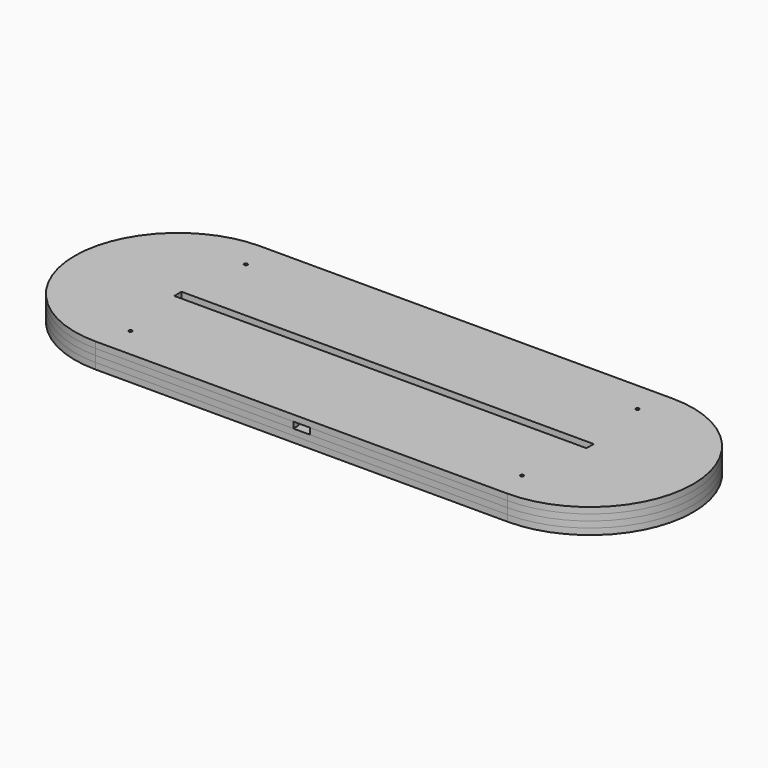
from build123d import *

# Parameters (mm, degrees)
BOX_BOTTOM_HALF_1_W     = 301.98633
BOX_BOTTOM_HALF_1_H     = 102
BOX_BOTTOM_HALF_1_DEPTH = 4
BOX_BOTTOM_HALF_0_W     = 301.98633
BOX_BOTTOM_HALF_0_H     = 102
BOX_BOTTOM_HALF_0_DEPTH = 7
PAD_DEPTH               = 3
PAD001_DEPTH            = 3
SKETCH002_W             = 209.08447
SKETCH002_H             = 4.18
PAD002_DEPTH            = 3
SKETCH003_W             = 26.3
SKETCH003_H             = 34.2
POCKET_DEPTH            = 3
SKETCH004_W             = 18
SKETCH004_H             = 25
POCKET001_DEPTH         = 3
SKETCH005_W             = 14
SKETCH005_H             = 5
POCKET002_DEPTH         = 6
SKETCH006_W             = 14
SKETCH006_H             = 3
POCKET003_DEPTH         = 3
SKETCH007_W             = 8
SKETCH007_H             = 3
POCKET004_DEPTH         = 3
SKETCH008_W             = 200
SKETCH008_H             = 4.4
PAD003_DEPTH            = 3
SKETCH009_R             = 0.82
POCKET005_DEPTH         = 644.911736
BOX_BOTTOM_HALF_2_W     = 301.98633
BOX_BOTTOM_HALF_2_H     = 102
BOX_BOTTOM_HALF_2_DEPTH = 4


with BuildPart() as box_bottom_half_1_body:
    # box_bottom_half_1 → box_bottom_half_1 (new body)
    with BuildSketch(Plane(origin=(-150.993165, -51, -1), x_dir=(1, 0, 0), z_dir=(0, 0, 1))):
        with Locations((150.993165, 51)):
            Rectangle(BOX_BOTTOM_HALF_1_W, BOX_BOTTOM_HALF_1_H)
    extrude(amount=BOX_BOTTOM_HALF_1_DEPTH)


with BuildPart() as box_bottom_half_0_body:
    # box_bottom_half_0 → box_bottom_half_0 (new body)
    with BuildSketch(Plane(origin=(-150.993165, -51, -1), x_dir=(1, 0, 0), z_dir=(0, 0, 1))):
        with Locations((150.993165, 51)):
            Rectangle(BOX_BOTTOM_HALF_0_W, BOX_BOTTOM_HALF_0_H)
    extrude(amount=BOX_BOTTOM_HALF_0_DEPTH)


with BuildPart() as body:
    # Sketch → Pad (new body)
    with BuildSketch(Plane.XY):
        with BuildLine():
            ThreePointArc((-100, 50), (-150, 0), (-100, -50))
            Line((-100, -50), (100, -50))
            ThreePointArc((100, -50), (150, 0), (100, 50))
            Line((-100, 50), (100, 50))
        make_face()
    extrude(amount=PAD_DEPTH)

    # Sketch001 (on Face6 of Pad) → Pad001 (join)
    with BuildSketch(Plane.XY.offset(3)):
        with BuildLine():
            ThreePointArc((-100, 50), (-150, 0), (-100, -50))
            Line((-100, -50), (100, -50))
            ThreePointArc((100, -50), (150, 0), (100, 50))
            Line((-100, 50), (100, 50))
        make_face()
        with BuildLine():
            ThreePointArc((-100, 5), (-105, 0), (-100, -5))
            Line((-100, -5), (100, -5))
            ThreePointArc((100, -5), (105, 0), (100, 5))
            Line((-100, 5), (100, 5))
        make_face(mode=Mode.SUBTRACT)
    extrude(amount=PAD001_DEPTH)

    # Sketch002 (on Face9 of Pad001) → Pad002 (join)
    with BuildSketch(Plane.XY.offset(6)):
        with BuildLine():
            ThreePointArc((-100, 50), (-150, 0), (-100, -50))
            Line((-100, -50), (100, -50))
            ThreePointArc((100, -50), (150, 0), (100, 50))
            Line((-100, 50), (100, 50))
        make_face()
        Rectangle(SKETCH002_W, SKETCH002_H, mode=Mode.SUBTRACT)
    extrude(amount=PAD002_DEPTH)

    # Sketch003 (on Face13 of Pad002) → Pocket (cut)
    with BuildSketch(Plane.XY.offset(9)):
        with Locations((0, -29.9)):
            Rectangle(SKETCH003_W, SKETCH003_H)
    extrude(amount=-POCKET_DEPTH, mode=Mode.SUBTRACT)

    # Sketch004 (on Face27 of Pocket) → Pocket001 (cut)
    with BuildSketch(Plane.XY.offset(6)):
        with Locations((0, -25.3)):
            Rectangle(SKETCH004_W, SKETCH004_H)
    extrude(amount=-POCKET001_DEPTH, mode=Mode.SUBTRACT)

    # Sketch005 (on Face13 of Pocket001) → Pocket002 (cut)
    with BuildSketch(Plane.XY.offset(9)):
        with Locations((0, -10.3)):
            Rectangle(SKETCH005_W, SKETCH005_H)
    extrude(amount=-POCKET002_DEPTH, mode=Mode.SUBTRACT)

    # Sketch006 (on Face23 of Pocket002) → Pocket003 (cut)
    with BuildSketch(Plane.XZ.offset(7.8)):
        with Locations((0, 4.5)):
            Rectangle(SKETCH006_W, SKETCH006_H)
    extrude(amount=-POCKET003_DEPTH, mode=Mode.SUBTRACT)

    # Sketch007 (on Face13 of Pocket003) → Pocket004 (cut)
    with BuildSketch(Plane.XY.offset(9)):
        with Locations((0, -48.5)):
            Rectangle(SKETCH007_W, SKETCH007_H)
    extrude(amount=-POCKET004_DEPTH, mode=Mode.SUBTRACT)

    # Sketch008 (on Face15 of Pocket004) → Pad003 (join)
    with BuildSketch(Plane.XY.offset(9)):
        with BuildLine():
            ThreePointArc((-100, 50), (-150, 0), (-100, -50))
            Line((-100, -50), (100, -50))
            ThreePointArc((100, -50), (150, 0), (100, 50))
            Line((-100, 50), (100, 50))
        make_face()
        Rectangle(SKETCH008_W, SKETCH008_H, mode=Mode.SUBTRACT)
    extrude(amount=PAD003_DEPTH)

    # Sketch009 (on Face4 of Pad003) → Pocket005 (cut, through all)
    with BuildSketch(Plane(origin=(0, 0, 0), x_dir=(1, 0, 0), z_dir=(0, 0, -1))):
        with Locations((-95, 35)):
            Circle(SKETCH009_R)
        with Locations((-95, -35)):
            Circle(SKETCH009_R)
    pocket005 = extrude(amount=-POCKET005_DEPTH, mode=Mode.SUBTRACT)

    # Mirrored: Pocket005 across Sketch009 V_Axis
    add(pocket005.mirror(Plane(origin=(0, 0, 0), x_dir=(0, 0, -1), z_dir=(1, 0, 0))), mode=Mode.SUBTRACT)


with BuildPart() as bottom_half_0_body:
    # bottom_half_0 base: copy of Body
    add(body.part)

    # bottom_half_0: intersect box_bottom_half_0 body
    add(box_bottom_half_0_body.part, mode=Mode.INTERSECT)


with BuildPart() as bottom_half_1_body:
    # bottom_half_1 base: copy of bottom_half_0 body
    add(bottom_half_0_body.part)

    # bottom_half_1: intersect box_bottom_half_1 body
    add(box_bottom_half_1_body.part, mode=Mode.INTERSECT)


with BuildPart() as top_half_1_body:
    # top_half_1 base: copy of bottom_half_0 body
    add(bottom_half_0_body.part)

    # top_half_1: cut box_bottom_half_1 body
    add(box_bottom_half_1_body.part, mode=Mode.SUBTRACT)


with BuildPart() as box_bottom_half_2_body:
    # box_bottom_half_2 → box_bottom_half_2 (new body)
    with BuildSketch(Plane(origin=(-150.993165, -51, 5), x_dir=(1, 0, 0), z_dir=(0, 0, 1))):
        with Locations((150.993165, 51)):
            Rectangle(BOX_BOTTOM_HALF_2_W, BOX_BOTTOM_HALF_2_H)
    extrude(amount=BOX_BOTTOM_HALF_2_DEPTH)


with BuildPart() as top_half_0_body:
    # top_half_0 base: copy of Body
    add(body.part)

    # top_half_0: cut box_bottom_half_0 body
    add(box_bottom_half_0_body.part, mode=Mode.SUBTRACT)


with BuildPart() as bottom_half_2_body:
    # bottom_half_2 base: copy of top_half_0 body
    add(top_half_0_body.part)

    # bottom_half_2: intersect box_bottom_half_2 body
    add(box_bottom_half_2_body.part, mode=Mode.INTERSECT)


with BuildPart() as top_half_2_body:
    # top_half_2 base: copy of top_half_0 body
    add(top_half_0_body.part)

    # top_half_2: cut box_bottom_half_2 body
    add(box_bottom_half_2_body.part, mode=Mode.SUBTRACT)


solid = Compound([bottom_half_1_body.part, top_half_1_body.part, bottom_half_2_body.part, top_half_2_body.part])
